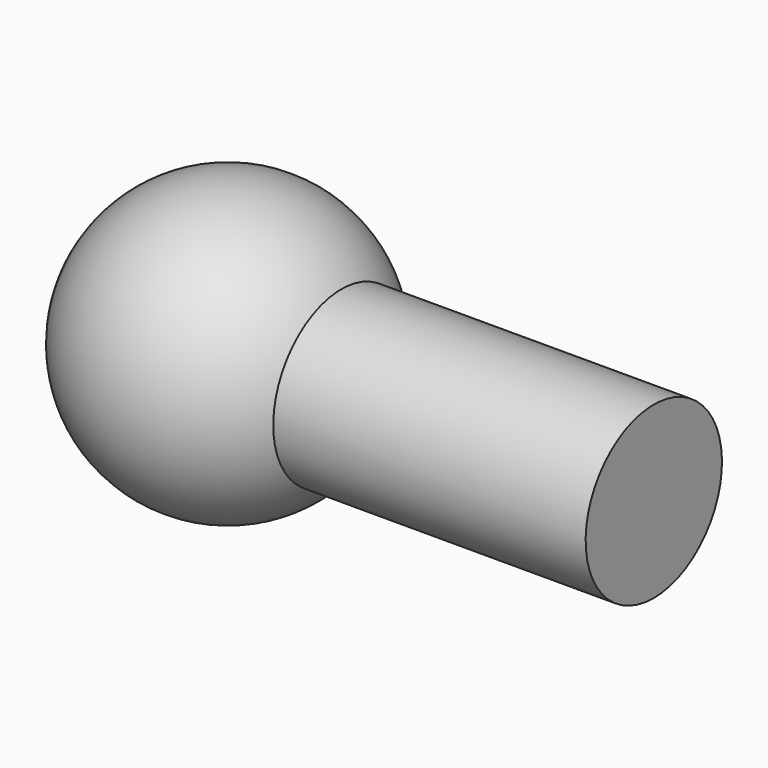
from build123d import *


with BuildPart() as f1:
    # F0 (on Front) → F1 (revolve)
    with BuildSketch(Plane.XZ):
        with BuildLine():
            Line((0, -3), (0, 0))
            Line((0, 0), (-18.807409, 0))
            Line((-18.807409, 0), (-20, 0))
            ThreePointArc((-20, 0), (-19.69239, -1.726695), (-18.807409, -3.240931))
            ThreePointArc((-18.807409, -3.240931), (-14.845777, -4.997621), (-11, -3))
            Line((-11, -3), (0, -3))
        make_face()
    revolve(axis=Axis((-9.403705, 0, 0), (-1, 0, 0)))


solid = f1.part
